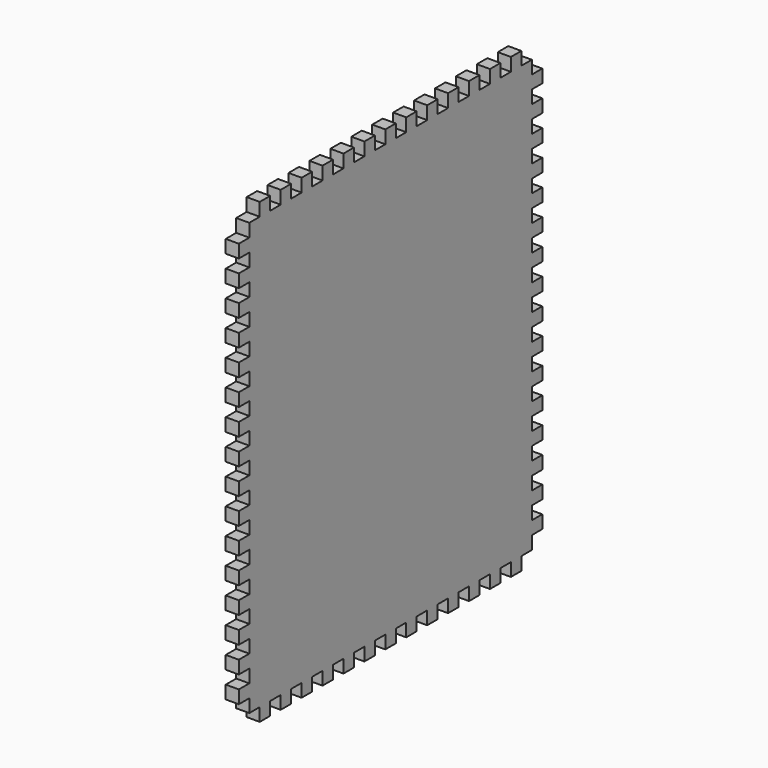
from build123d import *

# Parameters (mm, degrees)
F1_DEPTH = 12.7


with BuildPart() as f1:
    # F0 (on Right) → F1 (new body)
    with BuildSketch(Plane.YZ):
        Polygon((12.7, 25.573722), (12.7, 12.873722), (25.4, 12.873722), (25.4, 0.173722), (38.1, 0.173722), (38.1, 12.873722), (50.8, 12.873722), (50.8, 0.173722), (63.5, 0.173722), (63.5, 12.873722), (76.2, 12.873722), (76.2, 0.173722), (88.9, 0.173722), (88.9, 12.873722), (101.6, 12.873722), (101.6, 0.173722), (114.3, 0.173722), (114.3, 12.873722), (127, 12.873722), (127, 0.173722), (139.7, 0.173722), (139.7, 12.873722), (152.4, 12.873722), (152.4, 0.173722), (165.1, 0.173722), (165.1, 12.873722), (177.8, 12.873722), (177.8, 0.173722), (190.5, 0.173722), (190.5, 12.873722), (203.2, 12.873722), (203.2, 0.173722), (215.9, 0.173722), (215.9, 12.873722), (228.6, 12.873722), (228.6, 0.173722), (241.3, 0.173722), (241.3, 12.873722), (254, 12.873722), (254, 0.173722), (266.7, 0.173722), (266.7, 12.873722), (279.4, 12.873722), (279.4, 0.173722), (292.1, 0.173722), (292.1, 12.873722), (304.8, 12.873722), (304.8, 0.173722), (317.5, 0.173722), (317.5, 12.873722), (330.2, 12.873722), (330.2, 0.173722), (342.9, 0.173722), (342.9, 12.873722), (355.6, 12.873722), (355.6, 25.573722), (368.3, 25.573722), (368.3, 38.273722), (355.6, 38.273722), (355.6, 50.973722), (368.3, 50.973722), (368.3, 63.673722), (355.6, 63.673722), (355.6, 76.373722), (368.3, 76.373722), (368.3, 89.073722), (355.6, 89.073722), (355.6, 101.773722), (368.3, 101.773722), (368.3, 114.473722), (355.6, 114.473722), (355.6, 127.173722), (368.3, 127.173722), (368.3, 139.873722), (355.6, 139.873722), (355.6, 152.573722), (368.3, 152.573722), (368.3, 165.273722), (355.6, 165.273722), (355.6, 177.973722), (368.3, 177.973722), (368.3, 190.673722), (355.6, 190.673722), (355.6, 203.373722), (368.3, 203.373722), (368.3, 216.073722), (355.6, 216.073722), (355.6, 228.773722), (368.3, 228.773722), (368.3, 241.473722), (355.6, 241.473722), (355.6, 254.173722), (368.3, 254.173722), (368.3, 266.873722), (355.6, 266.873722), (355.6, 279.573722), (368.3, 279.573722), (368.3, 292.273722), (355.6, 292.273722), (355.6, 304.973722), (368.3, 304.973722), (368.3, 317.673722), (355.6, 317.673722), (355.6, 330.373722), (368.3, 330.373722), (368.3, 343.073722), (355.6, 343.073722), (355.6, 355.773722), (368.3, 355.773722), (368.3, 368.473722), (355.6, 368.473722), (355.6, 381.173722), (368.3, 381.173722), (368.3, 393.873722), (355.6, 393.873722), (355.6, 406.573722), (368.3, 406.573722), (368.3, 419.273722), (355.6, 419.273722), (355.6, 431.973722), (342.9, 431.973722), (342.9, 444.673722), (330.2, 444.673722), (330.2, 431.973722), (317.5, 431.973722), (317.5, 444.673722), (304.8, 444.673722), (304.8, 431.973722), (292.1, 431.973722), (292.1, 444.673722), (279.4, 444.673722), (279.4, 431.973722), (266.7, 431.973722), (266.7, 444.673722), (254, 444.673722), (254, 431.973722), (241.3, 431.973722), (241.3, 444.673722), (228.6, 444.673722), (228.6, 431.973722), (215.9, 431.973722), (215.9, 444.673722), (203.2, 444.673722), (203.2, 431.973722), (190.5, 431.973722), (190.5, 444.673722), (177.8, 444.673722), (177.8, 431.973722), (165.1, 431.973722), (165.1, 444.673722), (152.4, 444.673722), (152.4, 431.973722), (139.7, 431.973722), (139.7, 444.673722), (127, 444.673722), (127, 431.973722), (114.3, 431.973722), (114.3, 444.673722), (101.6, 444.673722), (101.6, 431.973722), (88.9, 431.973722), (88.9, 444.673722), (76.2, 444.673722), (76.2, 431.973722), (63.5, 431.973722), (63.5, 444.673722), (50.8, 444.673722), (50.8, 431.973722), (38.1, 431.973722), (38.1, 444.673722), (25.4, 444.673722), (25.4, 431.973722), (12.7, 431.973722), (12.7, 419.273722), (0, 419.273722), (0, 406.573722), (12.7, 406.573722), (12.7, 393.873722), (0, 393.873722), (0, 381.173722), (12.7, 381.173722), (12.7, 368.473722), (0, 368.473722), (0, 355.773722), (12.7, 355.773722), (12.7, 343.073722), (0, 343.073722), (0, 330.373722), (12.7, 330.373722), (12.7, 317.673722), (0, 317.673722), (0, 304.973722), (12.7, 304.973722), (12.7, 292.273722), (0, 292.273722), (0, 279.573722), (12.7, 279.573722), (12.7, 266.873722), (0, 266.873722), (0, 254.173722), (12.7, 254.173722), (12.7, 241.473722), (0, 241.473722), (0, 228.773722), (12.7, 228.773722), (12.7, 216.073722), (0, 216.073722), (0, 203.373722), (12.7, 203.373722), (12.7, 190.673722), (0, 190.673722), (0, 177.973722), (12.7, 177.973722), (12.7, 165.273722), (0, 165.273722), (0, 152.573722), (12.7, 152.573722), (12.7, 139.873722), (0, 139.873722), (0, 127.173722), (12.7, 127.173722), (12.7, 114.473722), (0, 114.473722), (0, 101.773722), (12.7, 101.773722), (12.7, 89.073722), (0, 89.073722), (0, 76.373722), (12.7, 76.373722), (12.7, 63.673722), (0, 63.673722), (0, 50.973722), (12.7, 50.973722), (12.7, 38.273722), (0, 38.273722), (0, 25.573722), align=None)
    extrude(amount=F1_DEPTH)


solid = f1.part
